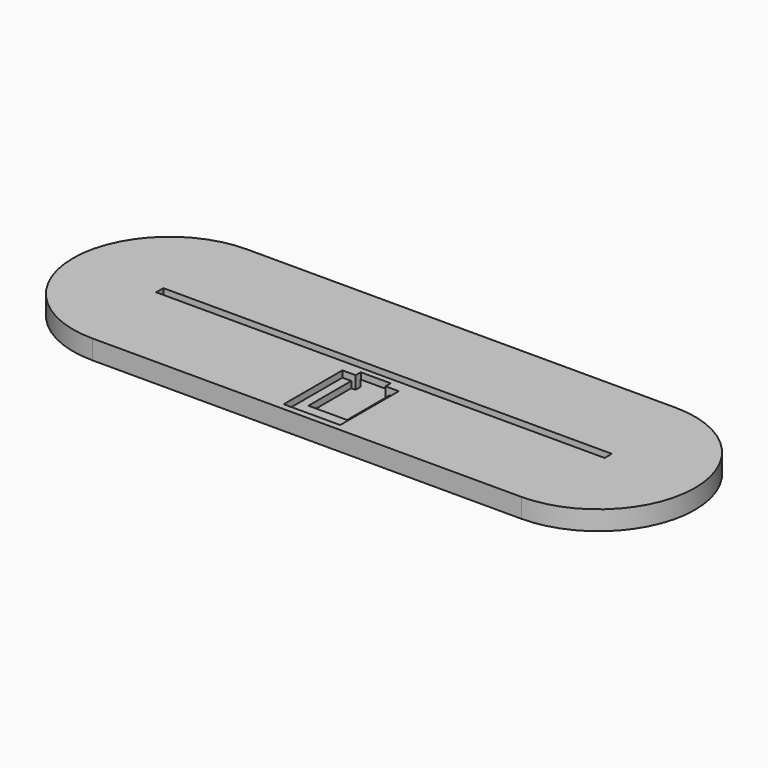
from build123d import *

# Parameters (mm, degrees)
PAD_DEPTH       = 3
PAD001_DEPTH    = 3
SKETCH002_W     = 209.08447
SKETCH002_H     = 4.18
PAD002_DEPTH    = 3
SKETCH003_W     = 26.3
SKETCH003_H     = 34.2
POCKET_DEPTH    = 3
SKETCH004_W     = 18
SKETCH004_H     = 25
POCKET001_DEPTH = 3
SKETCH005_W     = 14
SKETCH005_H     = 3
POCKET002_DEPTH = 6


with BuildPart() as part:
    # Sketch → Pad (new body)
    with BuildSketch(Plane.XY):
        with BuildLine():
            ThreePointArc((-100, 45), (-145, 0), (-100, -45))
            Line((-100, -45), (100, -45))
            ThreePointArc((100, -45), (145, 0), (100, 45))
            Line((-100, 45), (100, 45))
        make_face()
    extrude(amount=PAD_DEPTH)

    # Sketch001 (on Face6 of Pad) → Pad001 (join)
    with BuildSketch(Plane.XY.offset(3)):
        with BuildLine():
            ThreePointArc((-100, 45), (-145, 0), (-100, -45))
            Line((-100, -45), (100, -45))
            ThreePointArc((100, -45), (145, 0), (100, 45))
            Line((-100, 45), (100, 45))
        make_face()
        with BuildLine():
            ThreePointArc((-100, 5), (-105, 0), (-100, -5))
            Line((-100, -5), (100, -5))
            ThreePointArc((100, -5), (105, 0), (100, 5))
            Line((-100, 5), (100, 5))
        make_face(mode=Mode.SUBTRACT)
    extrude(amount=PAD001_DEPTH)

    # Sketch002 (on Face9 of Pad001) → Pad002 (join)
    with BuildSketch(Plane.XY.offset(6)):
        with BuildLine():
            ThreePointArc((-100, 45), (-145, 0), (-100, -45))
            Line((-100, -45), (100, -45))
            ThreePointArc((100, -45), (145, 0), (100, 45))
            Line((-100, 45), (100, 45))
        make_face()
        Rectangle(SKETCH002_W, SKETCH002_H, mode=Mode.SUBTRACT)
    extrude(amount=PAD002_DEPTH)

    # Sketch003 (on Face13 of Pad002) → Pocket (cut)
    with BuildSketch(Plane.XY.offset(9)):
        with Locations((0, -24.9)):
            Rectangle(SKETCH003_W, SKETCH003_H)
    extrude(amount=-POCKET_DEPTH, mode=Mode.SUBTRACT)

    # Sketch004 (on Face27 of Pocket) → Pocket001 (cut)
    with BuildSketch(Plane.XY.offset(6)):
        with Locations((0, -20.3)):
            Rectangle(SKETCH004_W, SKETCH004_H)
    extrude(amount=-POCKET001_DEPTH, mode=Mode.SUBTRACT)

    # Sketch005 (on Face13 of Pocket001) → Pocket002 (cut)
    with BuildSketch(Plane.XY.offset(9)):
        with Locations((0, -6.3)):
            Rectangle(SKETCH005_W, SKETCH005_H)
    extrude(amount=-POCKET002_DEPTH, mode=Mode.SUBTRACT)


solid = part.part
